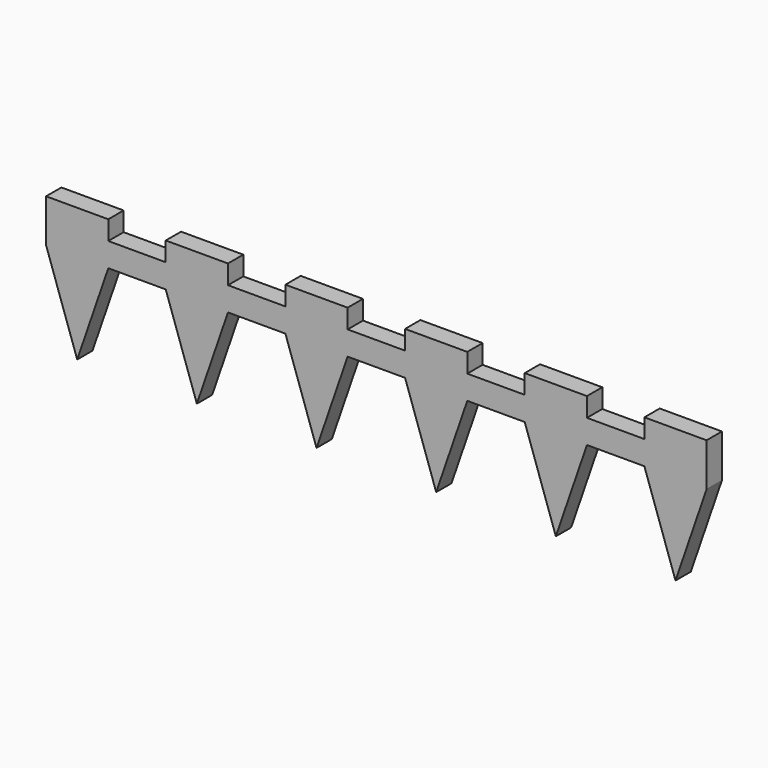
from build123d import *

# Parameters (mm, degrees)
F0_W     = 13
F0_H     = 4
F0_W_2   = 12
F1_DEPTH = 5
F2_DEPTH = 9
F4_DEPTH = 4


with BuildPart() as f1:
    # F0 (on Top) → F1 (new body)
    with BuildSketch(Plane.XY):
        with Locations((6.5, 2)):
            Rectangle(F0_W, F0_H)
        with Locations((19, 2)):
            Rectangle(F0_W_2, F0_H)
        with Locations((31.5, 2)):
            Rectangle(F0_W, F0_H)
        with Locations((44, 2)):
            Rectangle(F0_W_2, F0_H)
        with Locations((56.5, 2)):
            Rectangle(F0_W, F0_H)
        with Locations((69, 2)):
            Rectangle(F0_W_2, F0_H)
        with Locations((81.5, 2)):
            Rectangle(F0_W, F0_H)
        with Locations((94, 2)):
            Rectangle(F0_W_2, F0_H)
        with Locations((106.5, 2)):
            Rectangle(F0_W, F0_H)
        with Locations((119, 2)):
            Rectangle(F0_W_2, F0_H)
        with Locations((131.5, 2)):
            Rectangle(F0_W, F0_H)
    extrude(amount=F1_DEPTH)

    # F0 (on Top) → F2 (join)
    with BuildSketch(Plane.XY):
        with Locations((6.5, 2)):
            Rectangle(F0_W, F0_H)
        with Locations((31.5, 2)):
            Rectangle(F0_W, F0_H)
        with Locations((56.5, 2)):
            Rectangle(F0_W, F0_H)
        with Locations((81.5, 2)):
            Rectangle(F0_W, F0_H)
        with Locations((106.5, 2)):
            Rectangle(F0_W, F0_H)
        with Locations((131.5, 2)):
            Rectangle(F0_W, F0_H)
    extrude(amount=F2_DEPTH)

    # F3 (on face) → F4 (join)
    with BuildSketch(Plane.XZ):
        Polygon((13, 0), (0, 0), (6.5, -18.91428), align=None)
        Polygon((38, 0), (25, 0), (31.5, -18.91428), align=None)
        Polygon((63, 0), (50, 0), (56.5, -18.91428), align=None)
        Polygon((88, 0), (75, 0), (81.5, -18.91428), align=None)
        Polygon((113, 0), (100, 0), (106.5, -18.91428), align=None)
        Polygon((138, 0), (125, 0), (131.5, -18.91428), align=None)
    extrude(amount=-F4_DEPTH)


solid = f1.part
